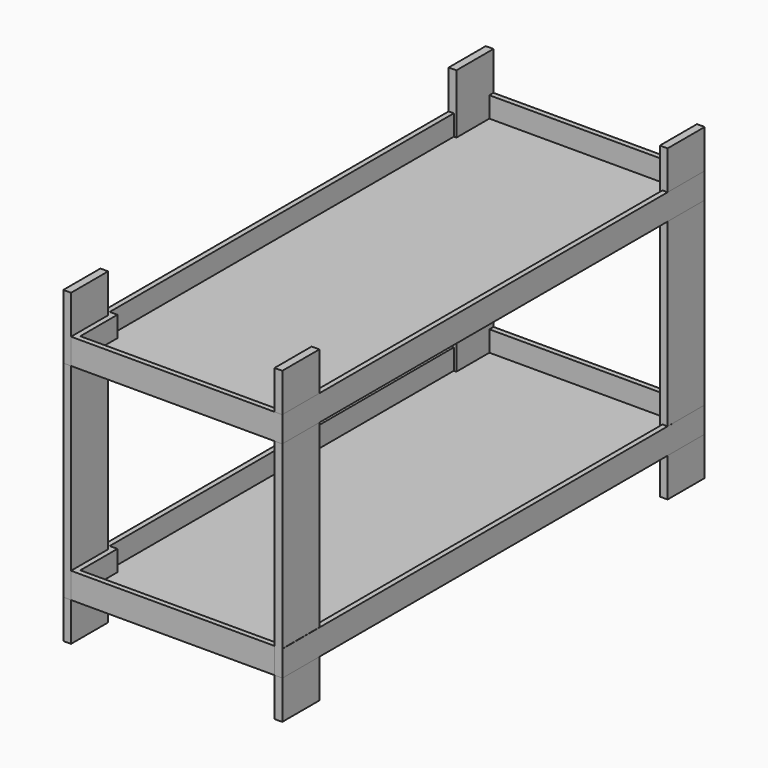
from build123d import *

# Parameters (mm, degrees)
F0_W     = 30
F0_H     = 180
F1_DEPTH = 150
F3_DEPTH = 100
F4_DEPTH = 800
F5_T     = -20
F7_DEPTH = 250
F8_DEPTH = 100
F9_T     = -20


with BuildPart() as f1:
    # F0 (on Top) → F1 (new body)
    with BuildSketch(Plane.XY):
        with Locations((-171.817610931, 1871.0189068435)):
            Rectangle(F0_W, F0_H)
    extrude(amount=F1_DEPTH)


with BuildPart() as f1b:
    # F0 (on Top) → F1, piece 2 (new body)
    with BuildSketch(Plane.XY):
        with Locations((648.182389069, 1871.0189068435)):
            Rectangle(F0_W, F0_H)
    extrude(amount=F1_DEPTH)


with BuildPart() as f1c:
    # F0 (on Top) → F1, piece 3 (new body)
    with BuildSketch(Plane.XY):
        with Locations((-171.817610931, 1.0189068435)):
            Rectangle(F0_W, F0_H)
    extrude(amount=F1_DEPTH)


with BuildPart() as f1d:
    # F0 (on Top) → F1, piece 4 (new body)
    with BuildSketch(Plane.XY):
        with Locations((648.182389069, 1.0189068435)):
            Rectangle(F0_W, F0_H)
    extrude(amount=F1_DEPTH)


with BuildPart() as f3:
    # F2 (on face) → F3 (new body)
    with BuildSketch(Plane.XY.offset(150)):
        Polygon((-156.817610931, 91.0189068435), (-156.817610931, -88.9810931565), (663.9247536659, -88.9810931565), (663.182389069, 1961.0189068435), (-186.817610931, 1961.0189068435), (-186.817610931, 91.0189068435), align=None)
    extrude(amount=F3_DEPTH)

    # F5
    f5_openings = [f3.faces().sort_by_distance(p)[0] for p in [
        (239.642564, 938.774604, 250),
    ]]
    offset(amount=F5_T, openings=f5_openings, kind=Kind.INTERSECTION)


with BuildPart() as f4:
    # F4 (new): a face of the model
    f4_faces = [f1b.part.faces().sort_by_distance(p)[0] for p in [
        (648.182389069, 1871.0189068435, 150),
    ]]
    extrude(f4_faces, amount=F4_DEPTH)


with BuildPart() as f4b:
    # F4#2 (new): a face of the model
    f4_2_faces = [f1.part.faces().sort_by_distance(p)[0] for p in [
        (-171.817610931, 1871.0189068435, 150),
    ]]
    extrude(f4_2_faces, amount=F4_DEPTH)


with BuildPart() as f4c:
    # F4#3 (new): a face of the model
    f4_3_faces = [f1d.part.faces().sort_by_distance(p)[0] for p in [
        (648.182389069, 1.0189068435, 150),
    ]]
    extrude(f4_3_faces, amount=F4_DEPTH)


with BuildPart() as f4d:
    # F4#4 (new): a face of the model
    f4_4_faces = [f1c.part.faces().sort_by_distance(p)[0] for p in [
        (-171.817610931, 1.0189068435, 150),
    ]]
    extrude(f4_4_faces, amount=F4_DEPTH)


with BuildPart() as f7:
    # F7 (new): a face of the model
    f7_faces = [f4c.part.faces().sort_by_distance(p)[0] for p in [
        (648.182389069, 1.0189068435, 950),
    ]]
    extrude(f7_faces, amount=F7_DEPTH)


with BuildPart() as f7b:
    # F7#2 (new): a face of the model
    f7_2_faces = [f4d.part.faces().sort_by_distance(p)[0] for p in [
        (-171.817610931, 1.0189068435, 950),
    ]]
    extrude(f7_2_faces, amount=F7_DEPTH)


with BuildPart() as f7c:
    # F7#3 (new): a face of the model
    f7_3_faces = [f4b.part.faces().sort_by_distance(p)[0] for p in [
        (-171.817610931, 1871.0189068435, 950),
    ]]
    extrude(f7_3_faces, amount=F7_DEPTH)


with BuildPart() as f7d:
    # F7#4 (new): a face of the model
    f7_4_faces = [f4.part.faces().sort_by_distance(p)[0] for p in [
        (648.182389069, 1871.0189068435, 950),
    ]]
    extrude(f7_4_faces, amount=F7_DEPTH)


with BuildPart() as f8:
    # F6 (on face) → F8 (new body)
    with BuildSketch(Plane.XY.offset(950)):
        Polygon((-156.817610931, 91.0189068435), (-156.817610931, -88.9810931565), (663.182389069, -88.9810931565), (663.182389069, 1961.0189068435), (-186.817610931, 1961.0189068435), (-186.817610931, 91.0189068435), align=None)
    extrude(amount=F8_DEPTH)

    # F9
    f9_openings = [f8.faces().sort_by_distance(p)[0] for p in [
        (239.456927, 938.925475, 1050),
    ]]
    offset(amount=F9_T, openings=f9_openings, kind=Kind.INTERSECTION)


solid = Compound([f1.part, f1b.part, f1c.part, f1d.part, f3.part, f4.part, f4b.part, f4c.part, f4d.part, f7.part, f7b.part, f7c.part, f7d.part, f8.part])
